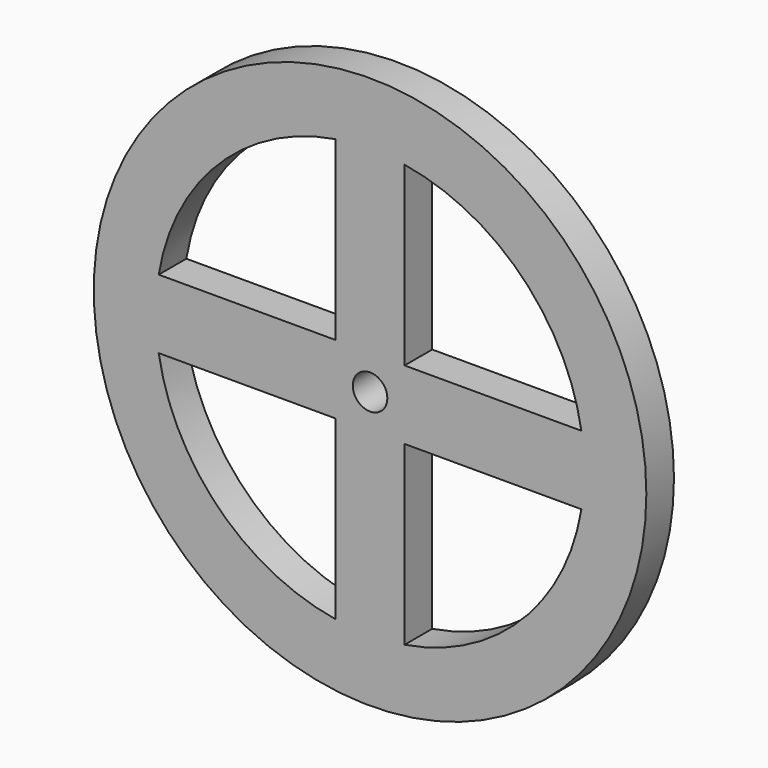
from build123d import *

# Parameters (mm, degrees)
F0_R     = 40
F0_R_2   = 2.5
F1_DEPTH = 2.5


with BuildPart() as f1:
    # F0 (on Front) → F1 (new body, symmetric)
    with BuildSketch(Plane.XZ):
        Circle(F0_R)
        with BuildLine():
            Line((-5.59017, -5), (-5, -5))
            Line((-5, -5), (-5, -5.59017))
            Line((-5, -5.59017), (-5, -30.594117))
            ThreePointArc((-5, -30.594117), (-21.92031, -21.92031), (-30.594117, -5))
            Line((-30.594117, -5), (-5.59017, -5))
        make_face(mode=Mode.SUBTRACT)
        with BuildLine():
            Line((5, -30.594117), (5, -5.59017))
            Line((5, -5.59017), (5, -5))
            Line((5, -5), (5.59017, -5))
            Line((5.59017, -5), (30.594117, -5))
            ThreePointArc((30.594117, -5), (21.92031, -21.92031), (5, -30.594117))
        make_face(mode=Mode.SUBTRACT)
        with BuildLine():
            ThreePointArc((-30.594117, 5), (-21.92031, 21.92031), (-5, 30.594117))
            Line((-5, 30.594117), (-5, 5.59017))
            Line((-5, 5.59017), (-5, 5))
            Line((-5, 5), (-5.59017, 5))
            Line((-5.59017, 5), (-30.594117, 5))
        make_face(mode=Mode.SUBTRACT)
        Circle(F0_R_2, mode=Mode.SUBTRACT)
        with BuildLine():
            Line((5.59017, 5), (5, 5))
            Line((5, 5), (5, 5.59017))
            Line((5, 5.59017), (5, 30.594117))
            ThreePointArc((5, 30.594117), (21.92031, 21.92031), (30.594117, 5))
            Line((30.594117, 5), (5.59017, 5))
        make_face(mode=Mode.SUBTRACT)
    extrude(amount=F1_DEPTH, both=True)


solid = f1.part
